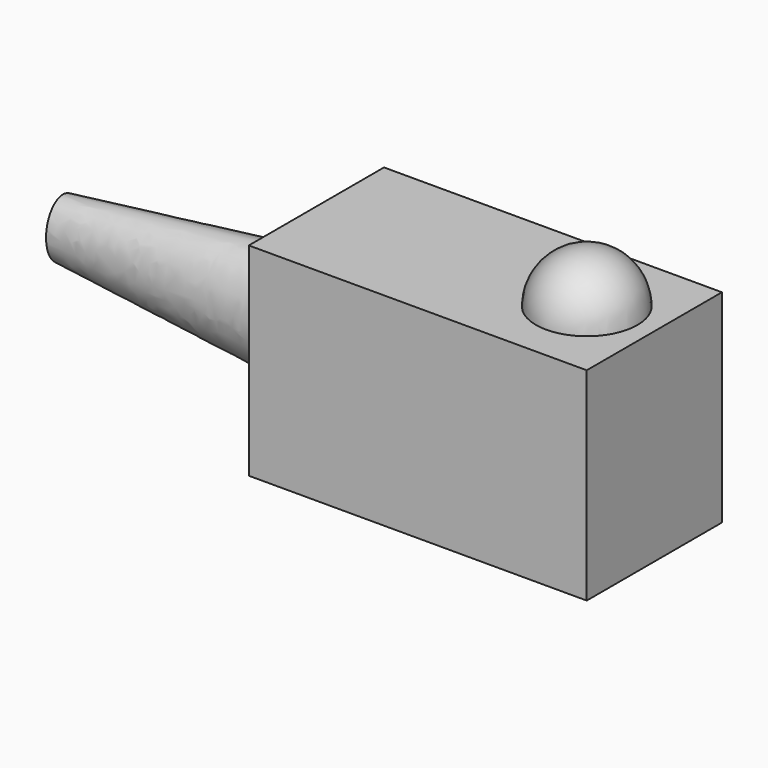
from build123d import *

# Parameters (mm, degrees)
F0_W     = 200
F0_H     = 100
F1_DEPTH = 120
F3_ANGLE = 180


with BuildPart() as f1:
    # F0 (on Top) → F1 (new body)
    with BuildSketch(Plane.XY):
        Rectangle(F0_W, F0_H)
    extrude(amount=F1_DEPTH)

    # F2 (on face) → F3 (revolve)
    with BuildSketch(Plane.XY.offset(120)):
        with BuildLine():
            Line((60, 0), (60, -30))
            ThreePointArc((60, -30), (90, 0), (60, 30))
            Line((60, 30), (60, 0))
        make_face()
    revolve(axis=Axis((60, 0, 120), (0, -1, 0)), revolution_arc=F3_ANGLE)

    # F4 (on face) → F7 section 0
    with BuildSketch(Plane(origin=(-100, 0, 0), x_dir=(0, -1, 0), z_dir=(-1, 0, 0))):
        with BuildLine():
            add(Edge.make_bspline(
                [(0, 95), (-43.30127, 95), (-21.650635, 42.5), (0, -10), (21.650635, 42.5), (43.30127, 95), (0, 95)],
                knots=[0, 0, 0, 2.094395, 2.094395, 4.18879, 4.18879, 6.283185, 6.283185, 6.283185], degree=2, weights=[1, 0.5, 1, 0.5, 1, 0.5, 1]))
        make_face()
    # F6 (on offset) → F7 section 1
    with BuildSketch(Plane.YZ.offset(-250)):
        with BuildLine():
            add(Edge.make_bspline(
                [(0, 77.5), (-21.650635, 77.5), (-10.825318, 51.25), (0, 25), (10.825318, 51.25), (21.650635, 77.5), (0, 77.5)],
                knots=[0, 0, 0, 2.094395, 2.094395, 4.18879, 4.18879, 6.283185, 6.283185, 6.283185], degree=2, weights=[1, 0.5, 1, 0.5, 1, 0.5, 1]))
        make_face()
    loft()


solid = f1.part
